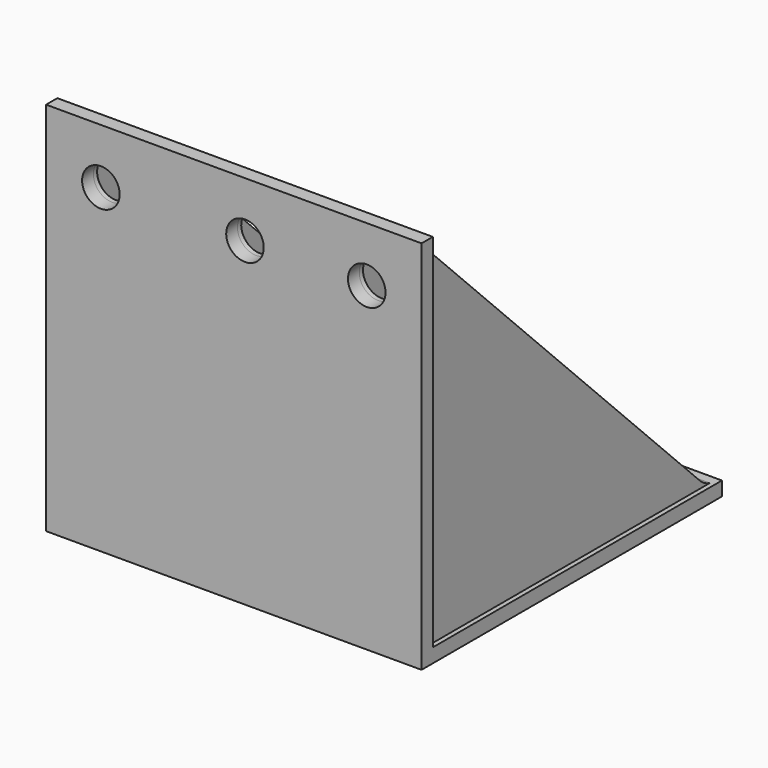
from build123d import *

# Parameters (mm, degrees)
PAD001_DEPTH  = 3
PAD_DEPTH     = 80
SKETCH002_R   = 4
POCKET_DEPTH  = 3.001
SKETCH003_R   = 6
SKETCH003_R_2 = 4
PAD002_DEPTH  = 1


with BuildPart() as body001:
    # Sketch001 → Pad001 (new body)
    with BuildSketch(Plane.YZ):
        with BuildLine():
            Line((79.823677, 0), (0, 0))
            Line((0, 0), (0, 79.823677))
            Line((0, 79.823677), (2.832004, 79.823677))
            Line((2.832004, 79.823677), (2.831928, 79.536726))
            ThreePointArc((2.831928, 79.536726), (3.237512, 77.490861), (4.393829, 75.755062))
            Line((4.393829, 75.755062), (75.39639, 4.499797))
            ThreePointArc((75.39639, 4.499797), (77.239452, 3.264747), (79.41524, 2.830951))
            Line((79.823677, 2.830951), (79.41524, 2.830951))
            Line((79.823677, 0), (79.823677, 2.830951))
        make_face()
    extrude(amount=PAD001_DEPTH)


with BuildPart() as body001_1:
    # Body001 placement: moved
    add(body001.part.moved(Location((57, 0, 0))))


with BuildPart() as body002:
    # Body002 base: copy of Body001
    add(body001_1.part)


with BuildPart() as body002_1:
    # Clone placement: moved
    add(body002.part.moved(Location((4, 0, 0))))


with BuildPart() as body002_2:
    # Body002 placement: moved
    add(body002_1.part.moved(Location((-41, 0, 0))))


with BuildPart() as body003:
    # Body003 base: copy of Body001
    add(body001_1.part)


with BuildPart() as body003_1:
    # Body003 placement: moved
    add(body003.part.moved(Location((19, 0, 0))))


with BuildPart() as body004:
    # Body004 base: copy of Body001
    add(body001_1.part)


with BuildPart() as body004_1:
    # Body004 placement: moved
    add(body004.part.moved(Location((-55, 0, 0))))


with BuildPart() as fusion:
    # Sketch → Pad (new body)
    with BuildSketch(Plane.YZ):
        Polygon((0, 0), (0, 80), (3, 80), (3, 3), (80, 3), (80, 0), align=None)
    extrude(amount=PAD_DEPTH)

    # Sketch002 (on Face3 of Pad) → Pocket (cut, through all)
    with BuildSketch(Plane.ZX.offset(3)):
        with Locations((68.267296, 68.324082)):
            Circle(SKETCH002_R)
        with Locations((68.267296, 11.675918)):
            Circle(SKETCH002_R)
        with Locations((68.267296, 42.377682)):
            Circle(SKETCH002_R)
    extrude(amount=-POCKET_DEPTH, mode=Mode.SUBTRACT)

    # Sketch003 (on Face10 of Pocket) → Pad002 (join)
    with BuildSketch(Plane.ZX.offset(3)):
        with Locations((68.267296, 42.377682)):
            Circle(SKETCH003_R)
        with Locations((68.267296, 42.377682)):
            Circle(SKETCH003_R_2, mode=Mode.SUBTRACT)
        with Locations((68.267296, 11.675918)):
            Circle(SKETCH003_R)
        with Locations((68.267296, 11.675918)):
            Circle(SKETCH003_R_2, mode=Mode.SUBTRACT)
        with Locations((68.267296, 68.324082)):
            Circle(SKETCH003_R)
        with Locations((68.267296, 68.324082)):
            Circle(SKETCH003_R_2, mode=Mode.SUBTRACT)
    extrude(amount=PAD002_DEPTH)

    # Fusion: union Body001, Body002, Body003, Body004
    add(body001_1.part)
    add(body002_2.part)
    add(body003_1.part)
    add(body004_1.part)


solid = fusion.part
